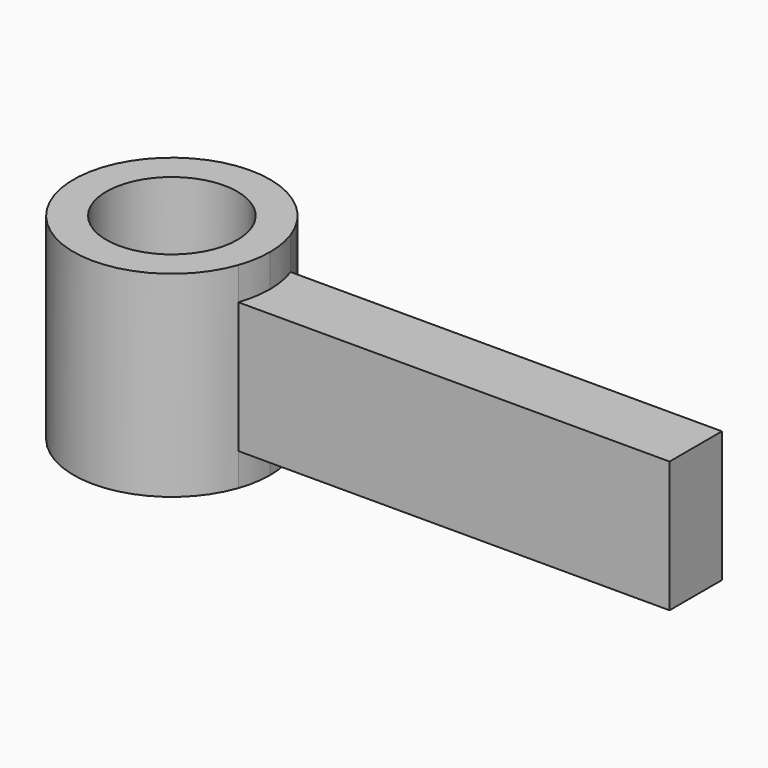
from build123d import *

# Parameters (mm, degrees)
F0_R     = 25.4
F1_DEPTH = 38.1
F2_DEPTH = 25.4


with BuildPart() as f1:
    # F0 (on Top) → F1 (new body, symmetric)
    with BuildSketch(Plane.XY):
        with BuildLine():
            ThreePointArc((35.921024, -12.7), (37.551305, -6.442785), (38.1, 0))
            ThreePointArc((38.1, 0), (37.551305, 6.442785), (35.921024, 12.7))
            ThreePointArc((35.921024, 12.7), (-38.1, 0), (35.921024, -12.7))
        make_face()
        Circle(F0_R, mode=Mode.SUBTRACT)
    extrude(amount=F1_DEPTH, both=True)


with BuildPart() as f2:
    # F0 (on Top) → F2 (new body, symmetric)
    with BuildSketch(Plane.XY):
        with BuildLine():
            ThreePointArc((35.921024, 12.7), (37.551305, 6.442785), (38.1, 0))
            ThreePointArc((38.1, 0), (37.551305, -6.442785), (35.921024, -12.7))
            Line((35.921024, -12.7), (203.2, -12.7))
            Line((203.2, -12.7), (203.2, 12.7))
            Line((203.2, 12.7), (35.921024, 12.7))
        make_face()
    extrude(amount=F2_DEPTH, both=True)


solid = Compound([f1.part, f2.part])
